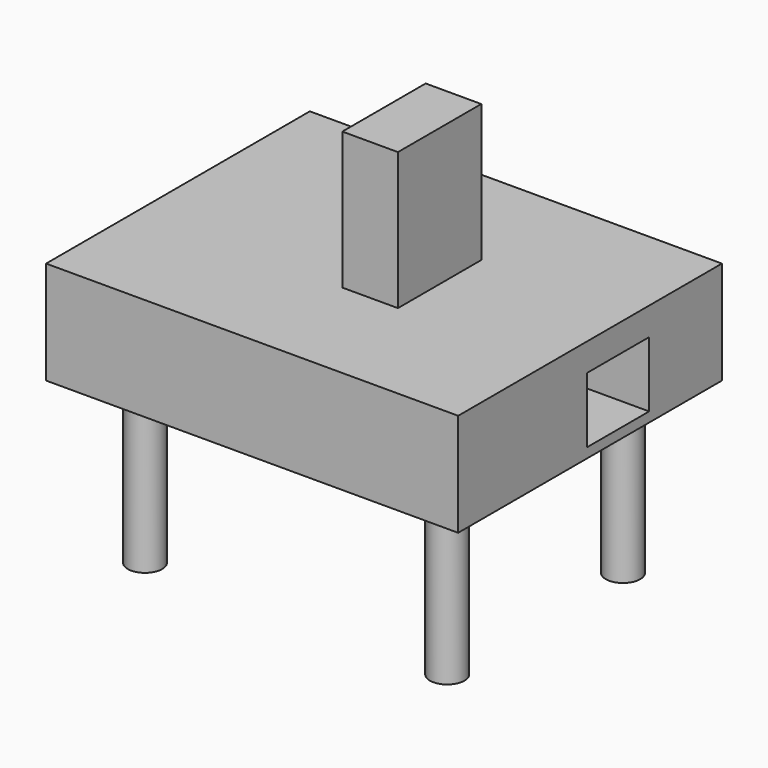
from build123d import *

# Parameters (mm, degrees)
F0_W     = 1524
F0_H     = 1219.2
F1_DEPTH = 381
F2_R     = 63.5
F3_DEPTH = 609.6
F4_W     = 288.1702780724
F4_H     = 241.9668510556
F5_DEPTH = 1524
F7_W     = 205.6101411581
F7_H     = 385.203063488
F8_DEPTH = 508


with BuildPart() as f1:
    # F0 (on Top) → F1 (new body)
    with BuildSketch(Plane.XY):
        Rectangle(F0_W, F0_H)
    extrude(amount=F1_DEPTH)

    # F2 (on face) → F3 (join)
    with BuildSketch(Plane(origin=(0, 0, 0), x_dir=(1, 0, 0), z_dir=(0, 0, -1))):
        with Locations((-558.8, -406.4)):
            Circle(F2_R)
        with Locations((-558.8, 406.4)):
            Circle(F2_R)
        with Locations((558.8, 406.4)):
            Circle(F2_R)
        with Locations((558.8, -406.4)):
            Circle(F2_R)
    extrude(amount=F3_DEPTH)

    # F4 (on face) → F5 (cut, through all)
    with BuildSketch(Plane.YZ.offset(762)):
        with Locations((129.0563344955, 157.3744080961)):
            Rectangle(F4_W, F4_H)
    extrude(amount=-F5_DEPTH, mode=Mode.SUBTRACT)

    # F7 (on face) → F8 (join)
    with BuildSketch(Plane.XY.offset(381)):
        with Locations((102.8050705791, 0)):
            Rectangle(F7_W, F7_H)
    extrude(amount=F8_DEPTH)


solid = f1.part
